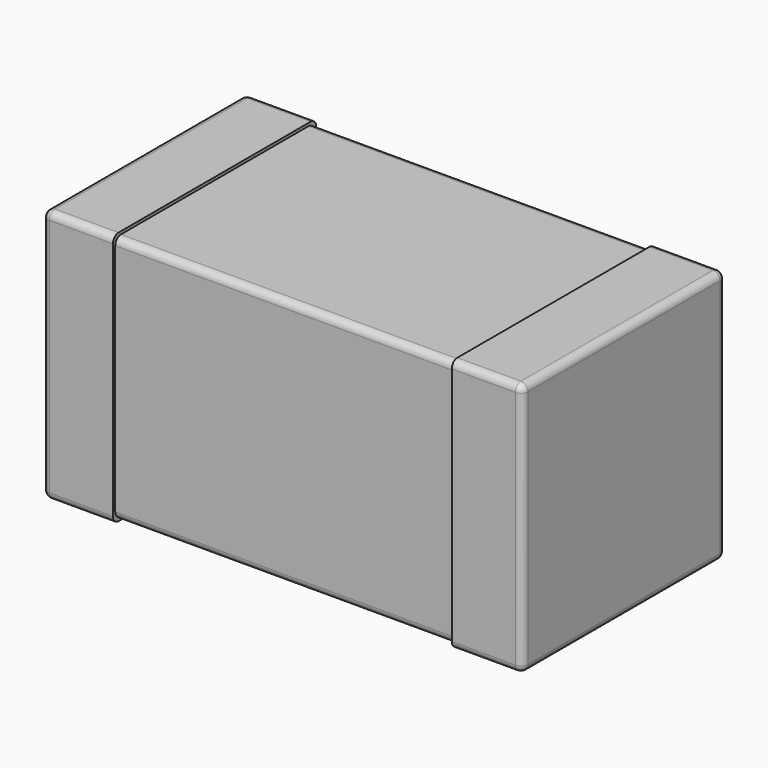
from build123d import *

# Parameters (mm, degrees)
PLATING_LEFT_W      = 0.5
PLATING_LEFT_H      = 1.8
PLATING_LEFT_DEPTH  = 1.8
PLATING_LEFT_F_R    = 0.05
PLATING_RIGHT_W     = 0.5
PLATING_RIGHT_H     = 1.8
PLATING_RIGHT_DEPTH = 1.8
PLATING_RIGHT_F_R   = 0.05
CHIP_W              = 3.36
CHIP_H              = 1.76
CHIP_DEPTH          = 1.76
CHIP_F_R            = 0.05


with BuildPart() as plating_left_f:
    # plating_left → plating_left (new body)
    with BuildSketch(Plane(origin=(-1.7, -0.9, 0), x_dir=(1, 0, 0), z_dir=(0, 0, 1))):
        with Locations((0.25, 0.9)):
            Rectangle(PLATING_LEFT_W, PLATING_LEFT_H)
    extrude(amount=PLATING_LEFT_DEPTH)

    # plating_left_f
    plating_left_f_edges = [plating_left_f.edges().sort_by_distance(p)[0] for p in [
        (-1.7, -0.9, 0.9),
        (-1.7, 0, 1.8),
        (-1.7, 0.9, 0.9),
        (-1.7, 0, 0),
        (-1.45, -0.9, 0),
        (-1.45, -0.9, 1.8),
        (-1.45, 0.9, 0),
        (-1.45, 0.9, 1.8),
    ]]
    fillet(plating_left_f_edges, radius=PLATING_LEFT_F_R)


with BuildPart() as plating_right_f:
    # plating_right → plating_right (new body)
    with BuildSketch(Plane(origin=(1.2, -0.9, 0), x_dir=(1, 0, 0), z_dir=(0, 0, 1))):
        with Locations((0.25, 0.9)):
            Rectangle(PLATING_RIGHT_W, PLATING_RIGHT_H)
    extrude(amount=PLATING_RIGHT_DEPTH)

    # plating_right_f
    plating_right_f_edges = [plating_right_f.edges().sort_by_distance(p)[0] for p in [
        (1.7, -0.9, 0.9),
        (1.7, 0, 1.8),
        (1.7, 0.9, 0.9),
        (1.7, 0, 0),
        (1.45, -0.9, 0),
        (1.45, -0.9, 1.8),
        (1.45, 0.9, 0),
        (1.45, 0.9, 1.8),
    ]]
    fillet(plating_right_f_edges, radius=PLATING_RIGHT_F_R)


with BuildPart() as capacitor:
    # chip → chip (new body)
    with BuildSketch(Plane(origin=(-1.68, -0.88, 0.02), x_dir=(1, 0, 0), z_dir=(0, 0, 1))):
        with Locations((1.68, 0.88)):
            Rectangle(CHIP_W, CHIP_H)
    extrude(amount=CHIP_DEPTH)

    # chip_f
    chip_f_edges = [capacitor.edges().sort_by_distance(p)[0] for p in [
        (0, -0.88, 0.02),
        (0, -0.88, 1.78),
        (0, 0.88, 0.02),
        (0, 0.88, 1.78),
    ]]
    fillet(chip_f_edges, radius=CHIP_F_R)

    # capacitor: union plating_left_f, plating_right_f
    add(plating_left_f.part)
    add(plating_right_f.part)


solid = capacitor.part
